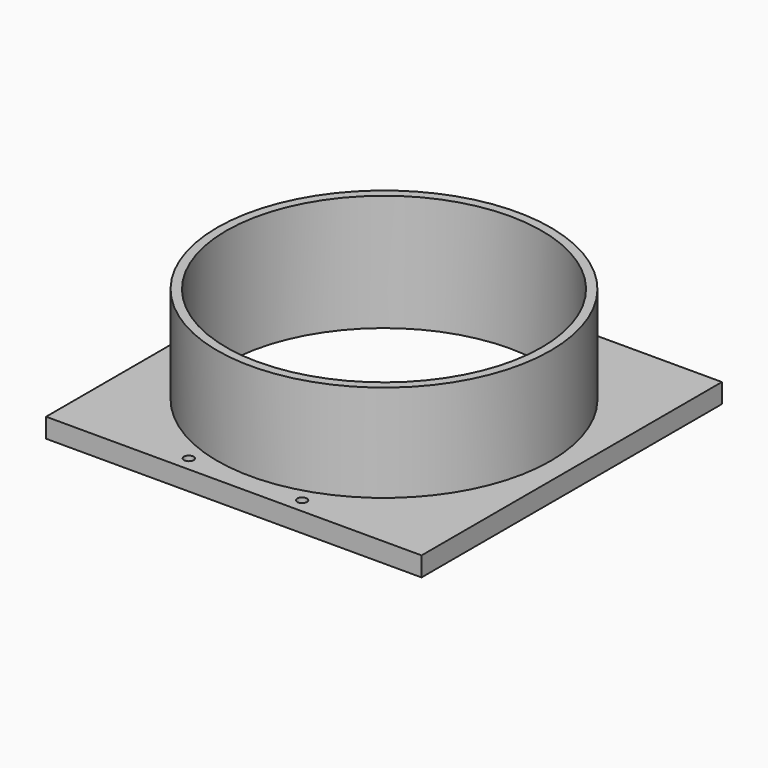
from build123d import *

# Parameters (mm, degrees)
F1_W     = 116
F1_H     = 116
F1_R     = 51.5
F1_R_2   = 48.75
F2_DEPTH = 6
F3_DEPTH = 30
F4_DEPTH = 6
F5_DEPTH = 6


with BuildPart() as f2:
    # F1 (on Top) → F2 (new body)
    with BuildSketch(Plane.XY):
        Rectangle(F1_W, F1_H)
        Circle(F1_R, mode=Mode.SUBTRACT)
        Circle(F1_R)
        Circle(F1_R_2, mode=Mode.SUBTRACT)
    extrude(amount=-F2_DEPTH)

    # F1 (on Top) → F3 (join)
    with BuildSketch(Plane.XY):
        Circle(F1_R)
        Circle(F1_R_2, mode=Mode.SUBTRACT)
    extrude(amount=F3_DEPTH)

    # F0 (on Top) → F4 (cut)
    with BuildSketch(Plane.XY):
        with BuildLine():
            Line((16, 53.5), (19, 53.5))
            ThreePointArc((19, 53.5), (17.5, 55), (16, 53.5))
        make_face()
        with BuildLine():
            ThreePointArc((16, 53.5), (17.5, 52), (19, 53.5))
            Line((19, 53.5), (16, 53.5))
        make_face()
    extrude(amount=-F4_DEPTH, mode=Mode.SUBTRACT)

    # F0 (on Top) → F5 (cut)
    with BuildSketch(Plane.XY):
        with BuildLine():
            Line((16, -53.5), (19, -53.5))
            ThreePointArc((19, -53.5), (17.5, -52), (16, -53.5))
        make_face()
        with BuildLine():
            ThreePointArc((16, -53.5), (17.5, -55), (19, -53.5))
            Line((19, -53.5), (16, -53.5))
        make_face()
        with BuildLine():
            Line((-19, -53.5), (-16, -53.5))
            ThreePointArc((-16, -53.5), (-17.5, -52), (-19, -53.5))
        make_face()
        with BuildLine():
            ThreePointArc((-19, -53.5), (-17.5, -55), (-16, -53.5))
            Line((-16, -53.5), (-19, -53.5))
        make_face()
        with BuildLine():
            ThreePointArc((-19, 53.5), (-17.5, 52), (-16, 53.5))
            Line((-16, 53.5), (-19, 53.5))
        make_face()
        with BuildLine():
            Line((-19, 53.5), (-16, 53.5))
            ThreePointArc((-16, 53.5), (-17.5, 55), (-19, 53.5))
        make_face()
    extrude(amount=-F5_DEPTH, mode=Mode.SUBTRACT)


with BuildPart() as f2_1:
    # F6: moved
    add(f2.part.moved(Location((0, 0, 6))))


solid = f2_1.part
